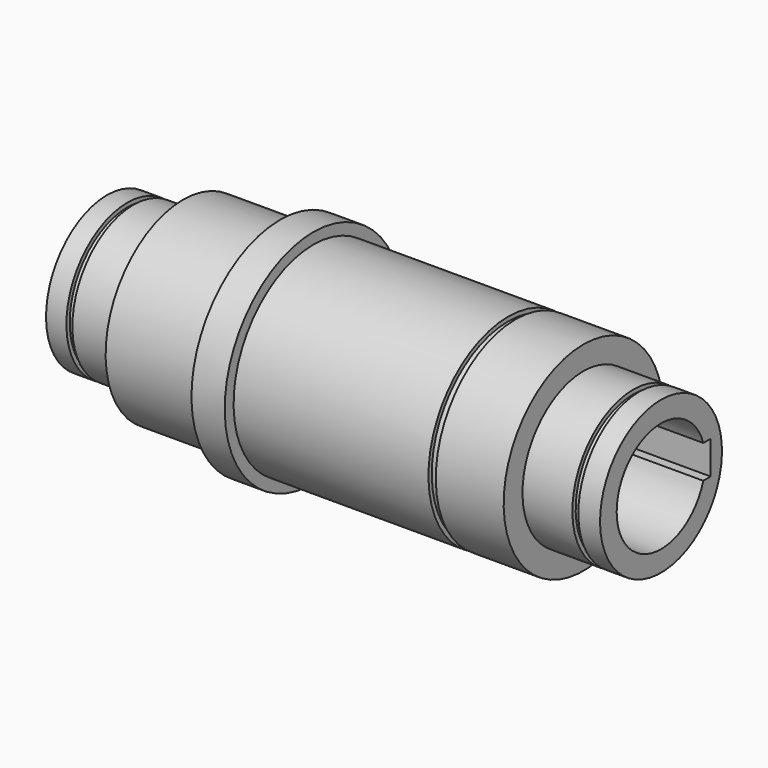
from build123d import *

# Parameters (mm, degrees)
F2_W     = 34
F2_H     = 23.5
F4_W     = 10
F4_H     = 12
F5_DEPTH = 200.001
F6_W     = 2.15
F6_H     = 10
F6_W_2   = 2.65


with BuildPart() as f1:
    # F0 (on Front) → F1 (revolve)
    with BuildSketch(Plane.XZ):
        Polygon((0, 27.5), (0, 20), (200, 20), (200, 27.5), (172, 27.5), (172, 36), (74.5, 36), (74.5, 40), (62.5, 40), (62.5, 35), (27.5, 35), (27.5, 27.5), align=None)
    revolve(axis=Axis((44.474047, 0, 0), (1, 0, 0)))

    # F2 (on Front) → F3 (revolve, cut)
    with BuildSketch(Plane.XZ):
        with Locations((100, 11.75)):
            Rectangle(F2_W, F2_H)
    revolve(axis=Axis((100, 0, 0), (1, 0, 0)), mode=Mode.SUBTRACT)

    # F4 (on face) → F5 (cut, through all)
    with BuildSketch(Plane.YZ.offset(200)):
        with Locations((17.4, 0)):
            Rectangle(F4_W, F4_H)
    extrude(amount=-F5_DEPTH, mode=Mode.SUBTRACT)

    # F6 (on Front) → F7 (revolve, cut)
    with BuildSketch(Plane.XZ):
        with Locations((8.425, 31)):
            Rectangle(F6_W, F6_H)
        with Locations((191.075, 31)):
            Rectangle(F6_W, F6_H)
        with Locations((146.175, 39.5)):
            Rectangle(F6_W_2, F6_H)
    revolve(axis=Axis((18.830039, 0, 0), (1, 0, 0)), mode=Mode.SUBTRACT)


solid = f1.part
